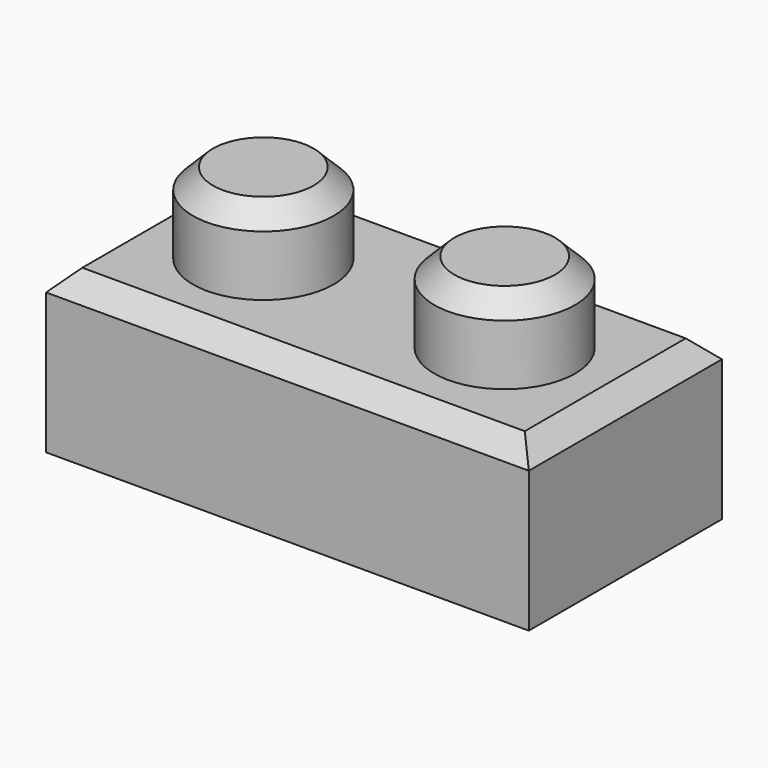
from build123d import *

# Parameters (mm, degrees)
F0_W     = 76.2
F0_H     = 38.1
F1_DEPTH = 25.4
F2_R     = 11.1125
F3_DEPTH = 12.7
F4_T     = -7.9375
F5_SIZE  = 3.175


with BuildPart() as f1:
    # F0 (on Top) → F1 (new body)
    with BuildSketch(Plane.XY):
        with Locations((38.1, 19.05)):
            Rectangle(F0_W, F0_H)
    extrude(amount=F1_DEPTH)

    # F2 (on face) → F3 (join)
    with BuildSketch(Plane.XY.offset(25.4)):
        with Locations((57.15, 19.05)):
            Circle(F2_R)
        with Locations((19.05, 19.05)):
            Circle(F2_R)
    extrude(amount=F3_DEPTH)

    # F4
    f4_openings = [f1.faces().sort_by_distance(p)[0] for p in [
        (38.1, 19.05, 0),
    ]]
    offset(amount=F4_T, openings=f4_openings, kind=Kind.INTERSECTION)

    # F5
    f5_edges = [f1.edges().sort_by_distance(p)[0] for p in [
        (0, 19.05, 25.4),
        (76.2, 19.05, 25.4),
        (38.1, 0, 25.4),
        (38.1, 38.1, 25.4),
        (7.9375, 19.05, 38.1),
        (46.0375, 19.05, 38.1),
    ]]
    chamfer(f5_edges, length=F5_SIZE)


solid = f1.part
